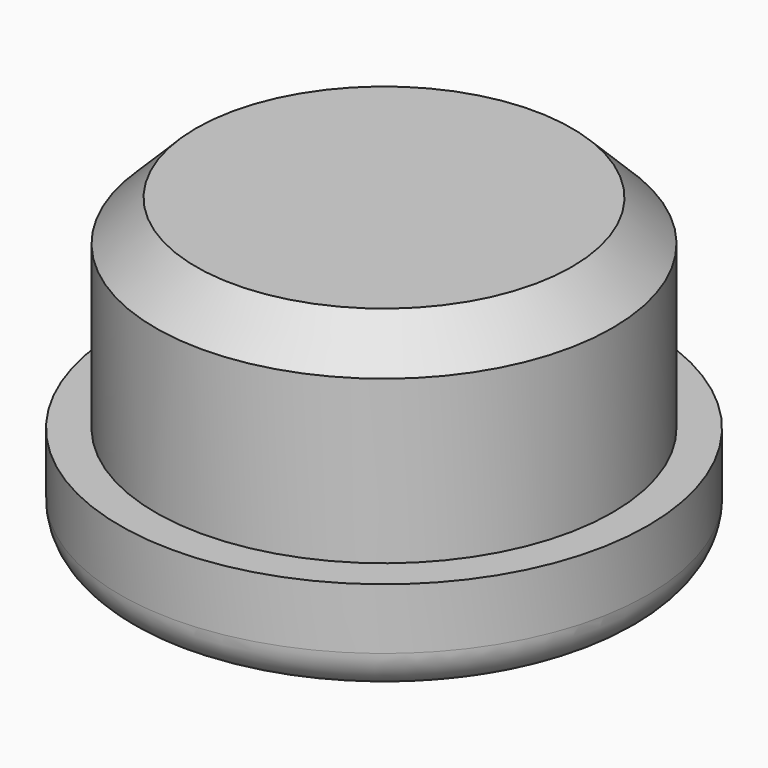
from build123d import *

# Parameters (mm, degrees)
F0_R     = 13
F0_R_2   = 11.25
F1_DEPTH = 5
F2_DEPTH = 15
F3_SIZE  = 2
F4_R     = 2


with BuildPart() as f1:
    # F0 (on Top) → F1 (new body)
    with BuildSketch(Plane.XY):
        with Locations((-1.525424, 1.90678)):
            Circle(F0_R)
        with Locations((-1.525424, 1.90678)):
            Circle(F0_R_2, mode=Mode.SUBTRACT)
    extrude(amount=F1_DEPTH)

    # F0 (on Top) → F2 (join)
    with BuildSketch(Plane.XY):
        with Locations((-1.525424, 1.90678)):
            Circle(F0_R_2)
    extrude(amount=F2_DEPTH)

    # F3
    f3_edges = [f1.edges().sort_by_distance(p)[0] for p in [
        (-12.775424, 1.90678, 15),
    ]]
    chamfer(f3_edges, length=F3_SIZE)

    # F4
    f4_edges = [f1.edges().sort_by_distance(p)[0] for p in [
        (-14.525424, 1.90678, 0),
    ]]
    fillet(f4_edges, radius=F4_R)


solid = f1.part
